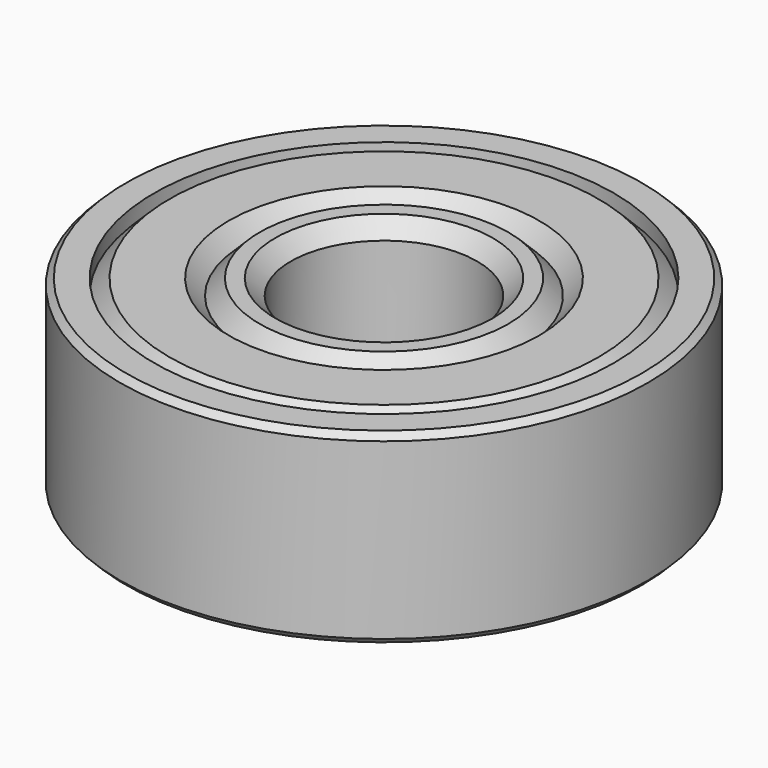
from build123d import *

# Parameters (mm, degrees)
SKETCH001_R     = 4.5
SKETCH001_R_2   = 3
PAD001_DEPTH    = 3
CHAMFER_SIZE    = 0.5
SKETCH002_R     = 7.4
SKETCH002_R_2   = 4.5
PAD002_DEPTH    = 3
CHAMFER001_SIZE = 0.5
SKETCH_R        = 8.5
SKETCH_R_2      = 7.4
PAD_DEPTH       = 3
CHAMFER002_SIZE = 0.2


with BuildPart() as innerrace:
    # Sketch001 → Pad001 (new body, symmetric)
    with BuildSketch(Plane.XY):
        Circle(SKETCH001_R)
        Circle(SKETCH001_R_2, mode=Mode.SUBTRACT)
    extrude(amount=PAD001_DEPTH, both=True)

    # Chamfer
    chamfer_edges = [innerrace.edges().sort_by_distance(p)[0] for p in [
        (-4.5, 0, 3),
        (-3, 0, 3),
        (-4.5, 0, -3),
        (-3, 0, -3),
    ]]
    chamfer(chamfer_edges, length=CHAMFER_SIZE)


with BuildPart() as seal:
    # Sketch002 → Pad002 (new body, symmetric)
    with BuildSketch(Plane.XY):
        Circle(SKETCH002_R)
        Circle(SKETCH002_R_2, mode=Mode.SUBTRACT)
    extrude(amount=PAD002_DEPTH, both=True)

    # Chamfer001
    chamfer001_edges = [seal.edges().sort_by_distance(p)[0] for p in [
        (-7.4, 0, -3),
        (-4.5, 0, -3),
        (-7.4, 0, 3),
        (-4.5, 0, 3),
    ]]
    chamfer(chamfer001_edges, length=CHAMFER001_SIZE)


with BuildPart() as fusion:
    # Sketch → Pad (new body, symmetric)
    with BuildSketch(Plane.XY):
        Circle(SKETCH_R)
        Circle(SKETCH_R_2, mode=Mode.SUBTRACT)
    extrude(amount=PAD_DEPTH, both=True)

    # Chamfer002
    chamfer002_edges = [fusion.edges().sort_by_distance(p)[0] for p in [
        (8.5, 0, 0),
        (-8.5, 0, -3),
        (-8.5, 0, 3),
    ]]
    chamfer(chamfer002_edges, length=CHAMFER002_SIZE)

    # Fusion: union InnerRace, Seal
    add(innerrace.part)
    add(seal.part)


solid = fusion.part
